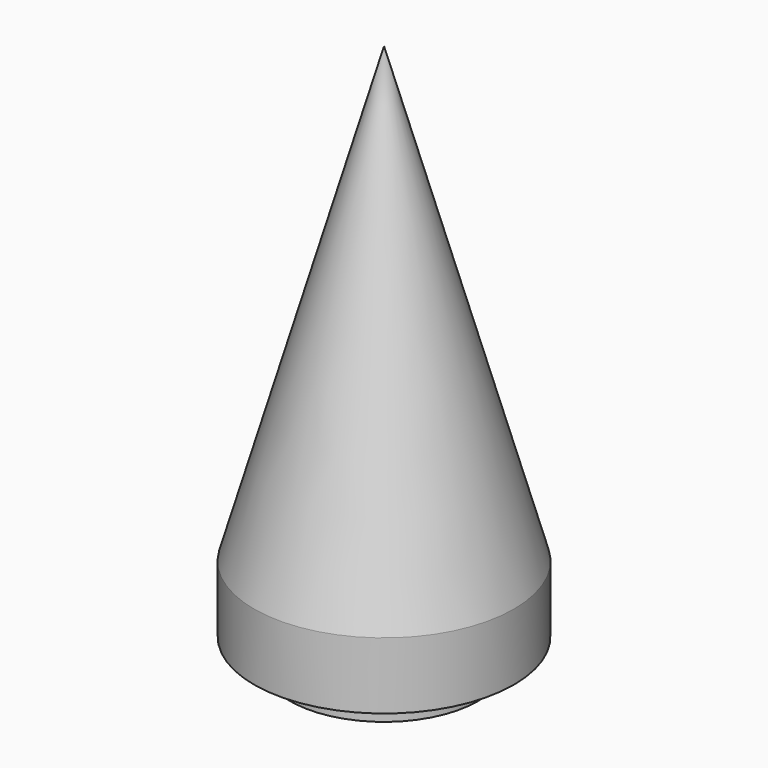
from build123d import *

# Parameters (mm, degrees)
F0_R     = 200
F1_DEPTH = 800
F2_SIZE2 = 200
F2_SIZE  = 697.4828887682
F3_R     = 145
F4_DEPTH = 40


with BuildPart() as f1:
    # F0 (on Top) → F1 (new body)
    with BuildSketch(Plane.XY):
        Circle(F0_R)
    extrude(amount=F1_DEPTH)

    # F2
    f2_edges = [f1.edges().sort_by_distance(p)[0] for p in [
        (-200, 0, 800),
    ]]
    f2_side = f1.faces().sort_by_distance((-200, 0, 400))[0]
    chamfer(f2_edges, length=F2_SIZE, length2=F2_SIZE2, reference=f2_side)

    # F3 (on face) → F4 (join)
    with BuildSketch(Plane(origin=(0, 0, 0), x_dir=(1, 0, 0), z_dir=(0, 0, -1))):
        Circle(F3_R)
    extrude(amount=F4_DEPTH)


solid = f1.part
